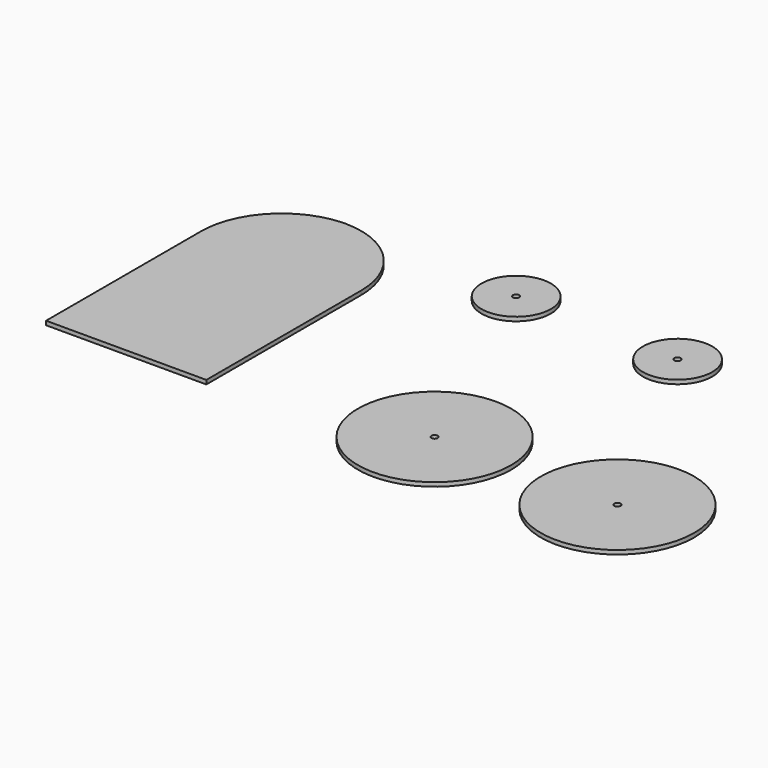
from build123d import *

# Parameters (mm, degrees)
F0_R     = 60.325
F0_R_2   = 2.5
F0_R_3   = 27.305
F1_DEPTH = 3.175


with BuildPart() as f1:
    # F0 (on Top) → F1 (new body)
    with BuildSketch(Plane.XY):
        with Locations((431.105014, -260.970086)):
            Circle(F0_R)
        with Locations((431.105014, -260.970086)):
            Circle(F0_R_2, mode=Mode.SUBTRACT)
        with Locations((575.288415, -261.224717)):
            Circle(F0_R)
        with Locations((575.288415, -261.224717)):
            Circle(F0_R_2, mode=Mode.SUBTRACT)
        with Locations((483.163476, -86.905949)):
            Circle(F0_R_3)
        with Locations((483.163476, -86.905949)):
            Circle(F0_R_2, mode=Mode.SUBTRACT)
        with BuildLine():
            ThreePointArc((207.991694, -73.567072), (165.364655, -93.321922), (147.984194, -136.970956))
            Line((147.984194, -136.970956), (147.984194, -289.370956))
            Line((147.984194, -289.370956), (274.151789, -289.370956))
            Line((274.151789, -289.370956), (274.151789, -136.970956))
            ThreePointArc((274.151789, -136.970956), (255.801452, -92.319439), (211.356264, -73.474863))
            ThreePointArc((211.356264, -73.474863), (211.212129, -73.473428), (211.067992, -73.472319))
            ThreePointArc((211.067992, -73.472319), (209.529269, -73.501055), (207.991694, -73.567072))
        make_face()
        with Locations((353.319794, -83.454296)):
            Circle(F0_R_3)
        with Locations((353.319794, -83.454296)):
            Circle(F0_R_2, mode=Mode.SUBTRACT)
    extrude(amount=F1_DEPTH)


solid = f1.part
